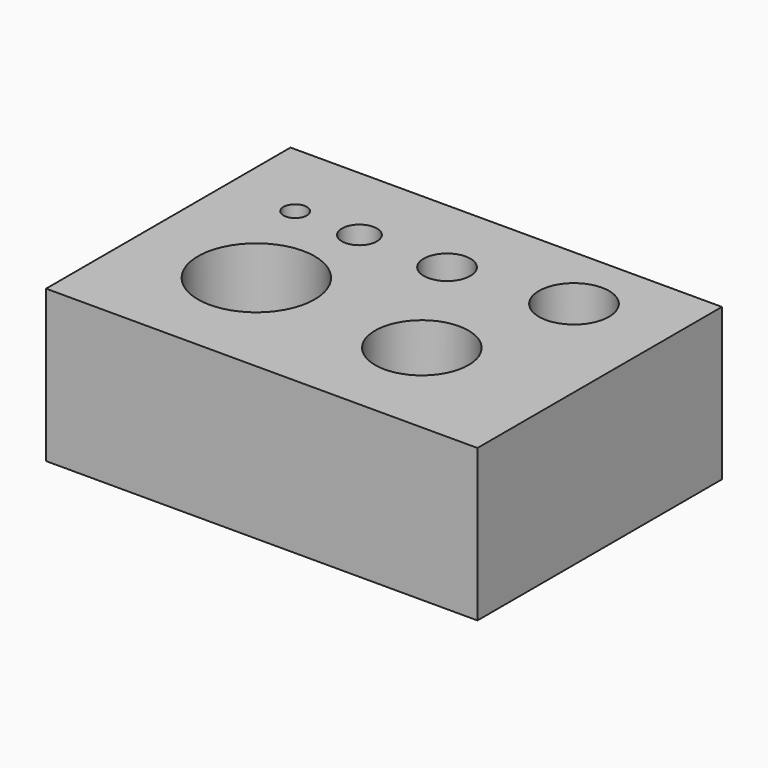
from build123d import *

# Parameters (mm, degrees)
F0_W     = 36.931676
F0_H     = 26.159039
F0_R     = 5
F0_R_2   = 4
F0_R_3   = 1
F0_R_4   = 1.5
F0_R_5   = 2
F0_R_6   = 3
F1_DEPTH = 13


with BuildPart() as f1:
    # F0 (on Top) → F1 (new body)
    with BuildSketch(Plane.XY):
        with Locations((4.465838, -3.506334)):
            Rectangle(F0_W, F0_H)
        with Locations((-4, -6.585854)):
            Circle(F0_R, mode=Mode.SUBTRACT)
        with Locations((10.96663, -7.585854)):
            Circle(F0_R_2, mode=Mode.SUBTRACT)
        with Locations((-8, 2.573185)):
            Circle(F0_R_3, mode=Mode.SUBTRACT)
        with Locations((-2.5, 2.573185)):
            Circle(F0_R_4, mode=Mode.SUBTRACT)
        with Locations((5, 2.573185)):
            Circle(F0_R_5, mode=Mode.SUBTRACT)
        with Locations((14.931676, 3.740152)):
            Circle(F0_R_6, mode=Mode.SUBTRACT)
    extrude(amount=F1_DEPTH)


solid = f1.part
